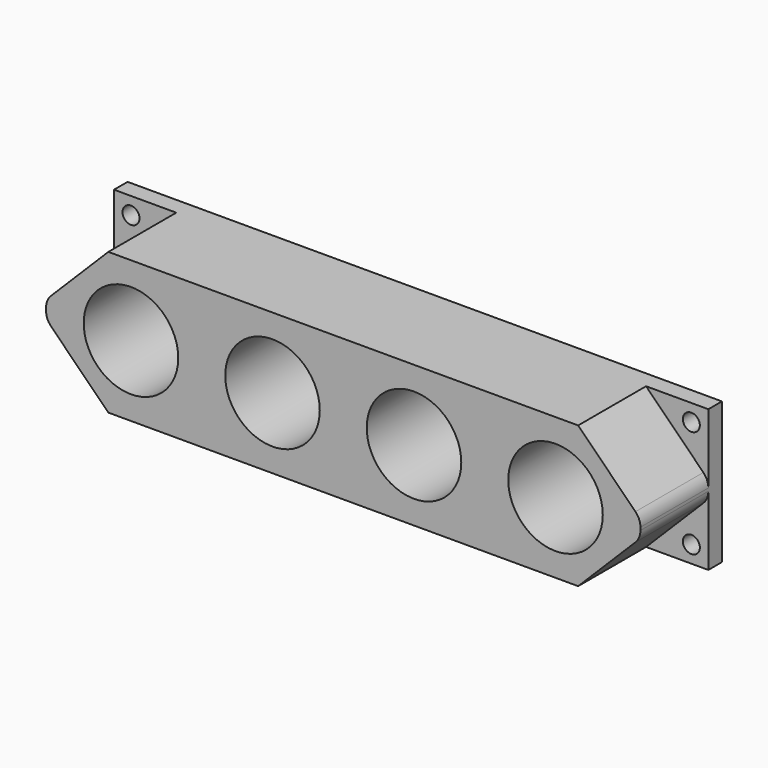
from build123d import *

# Parameters (mm, degrees)
F0_R     = 1.5
F0_R_2   = 8.35
F1_DEPTH = 3
F2_DEPTH = 18
F3_R     = 3


with BuildPart() as f1:
    # F0 (on Front) → F1 (new body)
    with BuildSketch(Plane.XZ):
        Polygon((-48.303484, 19.342105), (-48.303484, 8.342105), (-37.303484, 19.342105), align=None)
        with Locations((-45.303484, 16.342105)):
            Circle(F0_R, mode=Mode.SUBTRACT)
        Polygon((-48.303484, 5.342105), (-48.303484, -5.657895), (-37.303484, -5.657895), align=None)
        with Locations((-45.303484, -2.657895)):
            Circle(F0_R, mode=Mode.SUBTRACT)
        Polygon((-48.303484, 5.342105), (-37.303484, -5.657895), (45.696516, -5.657895), (56.696516, 5.342105), (56.696516, 6.842105), (56.696516, 8.342105), (45.696516, 19.342105), (-37.303484, 19.342105), (-48.303484, 8.342105), (-48.303484, 6.842105), align=None)
        with Locations((-33.303484, 6.842105)):
            Circle(F0_R_2, mode=Mode.SUBTRACT)
        with Locations((-8.303484, 6.842105)):
            Circle(F0_R_2, mode=Mode.SUBTRACT)
        with Locations((16.696516, 6.842105)):
            Circle(F0_R_2, mode=Mode.SUBTRACT)
        with Locations((41.696516, 6.842105)):
            Circle(F0_R_2, mode=Mode.SUBTRACT)
        Polygon((45.696516, 19.342105), (56.696516, 8.342105), (56.696516, 19.342105), align=None)
        with Locations((53.696516, 16.342105)):
            Circle(F0_R, mode=Mode.SUBTRACT)
        Polygon((56.696516, 5.342105), (45.696516, -5.657895), (56.696516, -5.657895), align=None)
        with Locations((53.696516, -2.657895)):
            Circle(F0_R, mode=Mode.SUBTRACT)
    extrude(amount=F1_DEPTH)

    # F0 (on Front) → F2 (join)
    with BuildSketch(Plane.XZ):
        Polygon((-48.303484, 5.342105), (-37.303484, -5.657895), (45.696516, -5.657895), (56.696516, 5.342105), (56.696516, 6.842105), (56.696516, 8.342105), (45.696516, 19.342105), (-37.303484, 19.342105), (-48.303484, 8.342105), (-48.303484, 6.842105), align=None)
        with Locations((-33.303484, 6.842105)):
            Circle(F0_R_2, mode=Mode.SUBTRACT)
        with Locations((-8.303484, 6.842105)):
            Circle(F0_R_2, mode=Mode.SUBTRACT)
        with Locations((16.696516, 6.842105)):
            Circle(F0_R_2, mode=Mode.SUBTRACT)
        with Locations((41.696516, 6.842105)):
            Circle(F0_R_2, mode=Mode.SUBTRACT)
    extrude(amount=F2_DEPTH)

    # F3
    f3_edges = [f1.edges().sort_by_distance(p)[0] for p in [
        (-48.303484, -10.5, 8.342105),
        (-48.303484, -10.5, 5.342105),
        (56.696516, -10.5, 5.342105),
        (56.696516, -10.5, 8.342105),
    ]]
    fillet(f3_edges, radius=F3_R)


solid = f1.part
